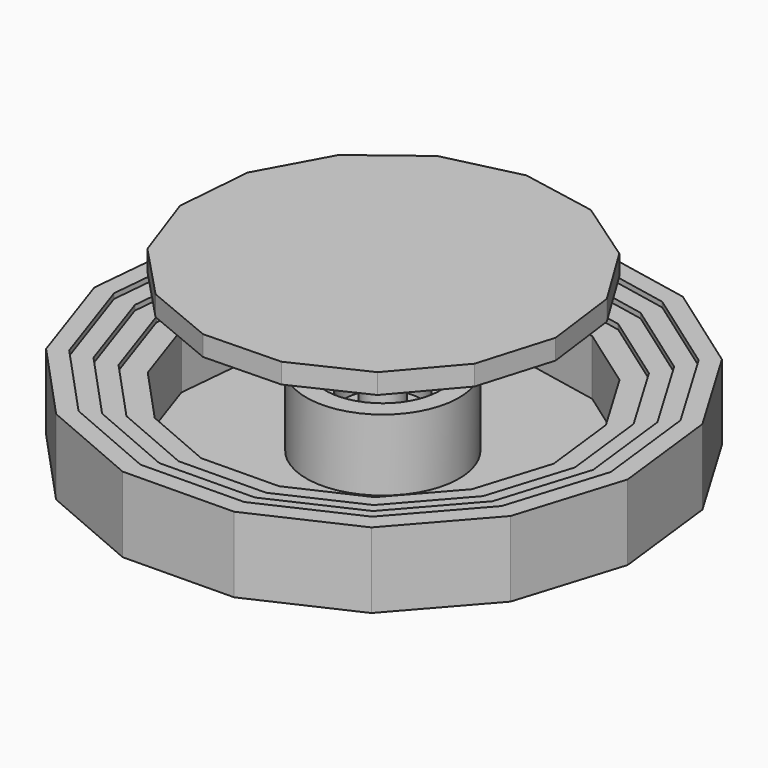
from build123d import *

# Parameters (mm, degrees)
F1_DEPTH  = 3.175
F2_DEPTH  = 3.175
F3_DEPTH  = 38.1
F4_DEPTH  = 41.275
F5_DEPTH  = 44.45
F6_DEPTH  = 47.625
F9_DEPTH  = 82.85556
F11_DEPTH = 12.7


with BuildPart() as f1:
    # F0 (on Top) → F1 (new body)
    with BuildSketch(Plane.XY):
        Polygon((-9.4908702287, 8.3305319638), (-12.0586739925, 3.7500349386), (-12.5414234734, -1.4788771955), (-10.8556469005, -6.4520780274), (-7.292830358, -10.309655953), (-2.4690171933, -12.384600704), (2.7817114744, -12.3181354828), (7.5514569571, -10.1217527298), (11.0154869291, -6.1752269766), (12.5748391385, -1.160948379), (11.959887422, 4.0540687402), (9.2769625181, 8.5681005442), (4.9899665163, 11.6006299253), (-0.1598400287, 12.627305004), (-5.2820087806, 11.470604332), align=None)
        Polygon((-7.9058447581, -0.932252511), (-7.6015298244, 2.3639417108), (-5.9828413263, 5.251388935), (-3.3296652105, 7.230823305), (-0.1007597308, 7.9599826356), (3.1455680218, 7.3127886543), (5.8479984868, 5.4011470801), (7.539256886, 2.5555981079), (7.9269092777, -0.7318369941), (6.9439270415, -3.8927308313), (4.7602767363, -6.3805361434), (1.7535313376, -7.7650887909), (-1.5564155597, -7.8069870429), (-4.5972440672, -6.4989863109), (-6.8431673107, -4.0672518043), align=None, mode=Mode.SUBTRACT)
        Polygon((-5.9828413263, 5.251388935), (-7.6015298244, 2.3639417108), (-7.9058447581, -0.932252511), (-6.8431673107, -4.0672518043), (-4.5972440672, -6.4989863109), (-1.5564155597, -7.8069870429), (1.7535313376, -7.7650887909), (4.7602767363, -6.3805361434), (6.9439270415, -3.8927308313), (7.9269092777, -0.7318369941), (7.539256886, 2.5555981079), (5.8479984868, 5.4011470801), (3.1455680218, 7.3127886543), (-0.1007597308, 7.9599826356), (-3.3296652105, 7.230823305), align=None)
    extrude(amount=F1_DEPTH)

    # F0 (on Top) → F2 (join)
    with BuildSketch(Plane.XY):
        Polygon((-88.0027819183, 77.2437057934), (-111.8123872745, 34.7716804603), (-116.2886150873, -13.7126843152), (-100.6574849026, -59.8260013968), (-67.6217611337, -95.5948593347), (-22.8936205404, -114.8344976416), (25.7930350264, -114.2182080676), (70.0198405147, -93.8525526789), (102.1395794678, -57.2589383083), (116.5984572219, -10.7647333231), (110.8964024586, 37.5907918482), (86.0193522481, 79.4465276074), (46.2687745726, 107.5652369941), (-1.4820945652, 117.0849397051), (-48.9766960882, 106.3595926578), align=None)
        Polygon((-103.0836181459, -12.1555589311), (-99.1156823489, 30.8232291542), (-78.0097446361, 68.4724008984), (-43.4152133794, 94.2820724751), (-1.3137973145, 103.7895171951), (41.0147862414, 95.3508114939), (76.2515406486, 70.4250842505), (98.3037109542, 33.3222201484), (103.3582765746, -9.5423585403), (90.5412571948, -50.7569767477), (62.0688319045, -83.1952525628), (22.8641417003, -101.2483134047), (-20.2939663181, -101.7946210468), (-59.9430631952, -84.7397139348), (-89.2274598802, -53.0325404474), align=None, mode=Mode.SUBTRACT)
        Polygon((-78.0097446361, 68.4724008984), (-99.1156823489, 30.8232291542), (-103.0836181459, -12.1555589311), (-89.2274598802, -53.0325404474), (-59.9430631952, -84.7397139348), (-20.2939663181, -101.7946210468), (22.8641417003, -101.2483134047), (62.0688319045, -83.1952525628), (90.5412571948, -50.7569767477), (103.3582765746, -9.5423585403), (98.3037109542, 33.3222201484), (76.2515406486, 70.4250842505), (41.0147862414, 95.3508114939), (-1.3137973145, 103.7895171951), (-43.4152133794, 94.2820724751), align=None)
        Polygon((-90.785239195, -10.7053414011), (-87.2906975121, 27.1458674216), (-68.7028012182, 60.3033091545), (-38.2355664483, 83.0337608963), (-1.1570548803, 91.4069210411), (36.121521988, 83.9749941321), (67.1543595509, 62.0230278487), (86.5755982692, 29.3467165888), (91.0271295321, -8.4039085758), (79.7392431435, -44.7014216006), (54.663717207, -73.269652731), (20.1363379612, -89.1688952703), (-17.872797051, -89.6500257433), (-52.7915630838, -74.6298523205), (-78.5821882632, -46.7054994405), align=None, mode=Mode.SUBTRACT)
        Polygon((-68.7028012182, 60.3033091545), (-87.2906975121, 27.1458674216), (-90.785239195, -10.7053414011), (-78.5821882632, -46.7054994405), (-52.7915630838, -74.6298523205), (-17.872797051, -89.6500257433), (20.1363379612, -89.1688952703), (54.663717207, -73.269652731), (79.7392431435, -44.7014216006), (91.0271295321, -8.4039085758), (86.5755982692, 29.3467165888), (67.1543595509, 62.0230278487), (36.121521988, 83.9749941321), (-1.1570548803, 91.4069210411), (-38.2355664483, 83.0337608963), align=None)
        Polygon((-80.9110588654, -9.5409839304), (-77.796598075, 24.1933699396), (-61.2303987176, 53.7444703571), (-34.0769071611, 74.0026635967), (-1.0312087776, 81.4651240074), (32.1927949719, 74.8415243897), (59.8503720083, 55.2771452912), (77.159276001, 26.1548455947), (81.126640203, -7.4898645144), (71.0664713016, -39.8395090057), (48.7182638935, -65.3005404593), (17.9462260667, -79.4705152307), (-15.9288772834, -79.8993159518), (-47.0497330419, -66.5127990823), (-70.035262524, -41.6256150016), align=None, mode=Mode.SUBTRACT)
        Polygon((-61.2303987176, 53.7444703571), (-77.796598075, 24.1933699396), (-80.9110588654, -9.5409839304), (-70.035262524, -41.6256150016), (-47.0497330419, -66.5127990823), (-15.9288772834, -79.8993159518), (17.9462260667, -79.4705152307), (48.7182638935, -65.3005404593), (71.0664713016, -39.8395090057), (81.126640203, -7.4898645144), (77.159276001, 26.1548455947), (59.8503720083, 55.2771452912), (32.1927949719, 74.8415243897), (-1.0312087776, 81.4651240074), (-34.0769071611, 74.0026635967), align=None)
        Polygon((-68.2382049407, -8.0466085342), (-65.6115527046, 20.4040357313), (-51.6400669437, 45.3266368539), (-28.7395444728, 62.411850685), (-0.8696936721, 68.7054885388), (27.1505350654, 63.1193232544), (50.4761896353, 46.6192535583), (65.0740524554, 22.0582913994), (68.4200204268, -6.3167497358), (59.9355452901, -33.5995674558), (41.0876698753, -55.0727147202), (15.1353630693, -67.0232892896), (-13.4339855118, -67.3849282533), (-39.680475954, -56.0951009492), (-59.0658516179, -35.1059210829), align=None, mode=Mode.SUBTRACT)
        Polygon((-51.6400669437, 45.3266368539), (-65.6115527046, 20.4040357313), (-68.2382049407, -8.0466085342), (-59.0658516179, -35.1059210829), (-39.680475954, -56.0951009492), (-13.4339855118, -67.3849282533), (15.1353630693, -67.0232892896), (41.0876698753, -55.0727147202), (59.9355452901, -33.5995674558), (68.4200204268, -6.3167497358), (65.0740524554, 22.0582913994), (50.4761896353, 46.6192535583), (27.1505350654, 63.1193232544), (-0.8696936721, 68.7054885388), (-28.7395444728, 62.411850685), align=None)
        Polygon((-55.7821490736, -6.577797836), (-53.6349603144, 16.6795267234), (-42.2137996585, 37.0528095836), (-23.4934895413, 51.0193250525), (-0.7109416508, 56.1641357239), (22.1945345099, 51.5976570934), (41.2623740227, 38.1094748015), (53.1955742102, 18.0318181027), (55.9307763501, -5.1637037599), (48.9950391439, -27.4663743318), (33.5876145637, -45.0198592574), (12.3725862916, -54.7890015249), (-10.9817745517, -55.0846276863), (-32.4372868088, -45.8556212926), (-48.2840974931, -28.6977613921), align=None, mode=Mode.SUBTRACT)
        Polygon((-42.2137996585, 37.0528095836), (-53.6349603144, 16.6795267234), (-55.7821490736, -6.577797836), (-48.2840974931, -28.6977613921), (-32.4372868088, -45.8556212926), (-10.9817745517, -55.0846276863), (12.3725862916, -54.7890015249), (33.5876145637, -45.0198592574), (48.9950391439, -27.4663743318), (55.9307763501, -5.1637037599), (53.1955742102, 18.0318181027), (41.2623740227, 38.1094748015), (22.1945345099, 51.5976570934), (-0.7109416508, 56.1641357239), (-23.4934895413, 51.0193250525), align=None)
        Polygon((-45.533494201, -5.36928255), (-43.780800758, 13.6150568945), (-34.4580091279, 30.245229313), (-19.1771146784, 41.645726814), (-0.5803228823, 45.8452998093), (18.1168120121, 42.1178039761), (33.6813855236, 31.1077572072), (43.4221414923, 14.7188966121), (45.6548147192, -4.2149949243), (39.9933557201, -22.4200755462), (27.4166821889, -36.7485214261), (10.0994152344, -44.7228141017), (-8.9641323644, -44.9641259251), (-26.4777000408, -37.4307318897), (-39.4130328378, -23.4252242631), align=None, mode=Mode.SUBTRACT)
        Polygon((-34.4580091279, 30.245229313), (-43.780800758, 13.6150568945), (-45.533494201, -5.36928255), (-39.4130328378, -23.4252242631), (-26.4777000408, -37.4307318897), (-8.9641323644, -44.9641259251), (10.0994152344, -44.7228141017), (27.4166821889, -36.7485214261), (39.9933557201, -22.4200755462), (45.6548147192, -4.2149949243), (43.4221414923, 14.7188966121), (33.6813855236, 31.1077572072), (18.1168120121, 42.1178039761), (-0.5803228823, 45.8452998093), (-19.1771146784, 41.645726814), align=None)
        Polygon((-35.1271666334, -4.1421745935), (-33.775037707, 10.5034410525), (-26.5828979245, 23.3329163199), (-14.7943335928, 32.1279183826), (-0.4476945806, 35.367711484), (13.9763548918, 32.4921059643), (25.9837656322, 23.9983201418), (33.4983472396, 11.3550067489), (35.2207602864, -3.2516904679), (30.8531839092, -17.2961408621), (21.1508117416, -28.3499313707), (7.7912720749, -34.5017611943), (-6.9154493151, -34.6879230688), (-20.4264266937, -28.8762279147), (-30.4054893286, -18.0715706219), align=None, mode=Mode.SUBTRACT)
        Polygon((-26.5828979245, 23.3329163199), (-33.775037707, 10.5034410525), (-35.1271666334, -4.1421745935), (-30.4054893286, -18.0715706219), (-20.4264266937, -28.8762279147), (-6.9154493151, -34.6879230688), (7.7912720749, -34.5017611943), (21.1508117416, -28.3499313707), (30.8531839092, -17.2961408621), (35.2207602864, -3.2516904679), (33.4983472396, 11.3550067489), (25.9837656322, 23.9983201418), (13.9763548918, 32.4921059643), (-0.4476945806, 35.367711484), (-14.7943335928, 32.1279183826), align=None)
        Polygon((-26.1789871349, -3.08701059), (-25.1712951073, 7.8278288442), (-19.8112574816, 17.3891655576), (-11.0256734577, 23.9437575706), (-0.3336503279, 26.3582563773), (10.4160639748, 24.2151731992), (19.3647461892, 17.885066587), (24.9650878643, 8.4624694812), (26.248739047, -2.423365477), (22.9937447862, -12.8901785287), (15.7629231602, -21.1281626092), (5.8065489181, -25.7128954312), (-5.1538303827, -25.8516350388), (-15.2230655893, -21.5203920935), (-22.6600944583, -13.4680778486), align=None, mode=Mode.SUBTRACT)
        Polygon((-19.8112574816, 17.3891655576), (-25.1712951073, 7.8278288442), (-26.1789871349, -3.08701059), (-22.6600944583, -13.4680778486), (-15.2230655893, -21.5203920935), (-5.1538303827, -25.8516350388), (5.8065489181, -25.7128954312), (15.7629231602, -21.1281626092), (22.9937447862, -12.8901785287), (26.248739047, -2.423365477), (24.9650878643, 8.4624694812), (19.3647461892, 17.885066587), (10.4160639748, 24.2151731992), (-0.3336503279, 26.3582563773), (-11.0256734577, 23.9437575706), align=None)
        Polygon((-18.4948609234, -2.1809029982), (-17.7829493507, 5.5301836186), (-13.9962042822, 12.2850512476), (-7.7893883418, 16.9157219097), (-0.2357163927, 18.6215105791), (7.3587130621, 17.1074708982), (13.6807541767, 12.6353940826), (17.6372686083, 5.9785428411), (18.544139068, -1.7120527709), (16.2445594147, -9.1066189054), (11.1361478613, -14.9265679001), (4.102195174, -18.1655777012), (-3.6410643261, -18.2635940887), (-10.7547507263, -15.2036691388), (-16.008843022, -9.5148916737), align=None, mode=Mode.SUBTRACT)
        Polygon((-13.9962042822, 12.2850512476), (-17.7829493507, 5.5301836186), (-18.4948609234, -2.1809029982), (-16.008843022, -9.5148916737), (-10.7547507263, -15.2036691388), (-3.6410643261, -18.2635940887), (4.102195174, -18.1655777012), (11.1361478613, -14.9265679001), (16.2445594147, -9.1066189054), (18.544139068, -1.7120527709), (17.6372686083, 5.9785428411), (13.6807541767, 12.6353940826), (7.3587130621, 17.1074708982), (-0.2357163927, 18.6215105791), (-7.7893883418, 16.9157219097), align=None)
        Polygon((-12.5414234734, -1.4788771955), (-12.0586739925, 3.7500349386), (-9.4908702287, 8.3305319638), (-5.2820087806, 11.470604332), (-0.1598400287, 12.627305004), (4.9899665163, 11.6006299253), (9.2769625181, 8.5681005442), (11.959887422, 4.0540687402), (12.5748391385, -1.160948379), (11.0154869291, -6.1752269766), (7.5514569571, -10.1217527298), (2.7817114744, -12.3181354828), (-2.4690171933, -12.384600704), (-7.292830358, -10.309655953), (-10.8556469005, -6.4520780274), align=None, mode=Mode.SUBTRACT)
    extrude(amount=F2_DEPTH)

    # F0 (on Top) → F3 (join)
    with BuildSketch(Plane.XY):
        Polygon((-98.9354621212, 86.8397744031), (-125.7029603468, 39.0914037043), (-130.7352747528, -15.4162258292), (-113.1622724614, -67.2582498648), (-76.0224852145, -107.4707114768), (-25.7377196313, -129.1005107337), (28.9973314959, -128.4076588434), (78.718480575, -105.5119561921), (114.8284892277, -64.3722777692), (131.0836089089, -12.1020477162), (124.6731817526, 42.2607363306), (96.7056288509, 89.3162551391), (52.0167941778, 120.9281820213), (-1.6662167663, 131.630527634), (-55.0611236945, 119.572759193), align=None)
        Polygon((-116.2886150873, -13.7126843152), (-111.8123872745, 34.7716804603), (-88.0027819183, 77.2437057934), (-48.9766960882, 106.3595926578), (-1.4820945652, 117.0849397051), (46.2687745726, 107.5652369941), (86.0193522481, 79.4465276074), (110.8964024586, 37.5907918482), (116.5984572219, -10.7647333231), (102.1395794678, -57.2589383083), (70.0198405147, -93.8525526789), (25.7930350264, -114.2182080676), (-22.8936205404, -114.8344976416), (-67.6217611337, -95.5948593347), (-100.6574849026, -59.8260013968), align=None, mode=Mode.SUBTRACT)
    extrude(amount=F3_DEPTH)

    # F0 (on Top) → F4 (join)
    with BuildSketch(Plane.XY):
        Polygon((-108.3169891109, 95.0743312533), (-137.6227077244, 42.7982349158), (-143.1322099093, -16.8780650484), (-123.8928526856, -73.6359942333), (-83.2312957013, -117.6615910533), (-28.1782915577, -141.3424298581), (31.746995188, -140.5838784848), (86.1829380533, -115.5170973571), (125.7170679818, -70.4763606564), (143.5135747525, -13.2496209406), (136.4952806686, 46.2680986048), (105.8757125364, 97.785643569), (56.949271856, 132.3951624055), (-1.8242152961, 144.1123548897), (-60.2822790511, 130.9112119939), align=None)
        Polygon((-130.7352747528, -15.4162258292), (-125.7029603468, 39.0914037043), (-98.9354621212, 86.8397744031), (-55.0611236945, 119.572759193), (-1.6662167663, 131.630527634), (52.0167941778, 120.9281820213), (96.7056288509, 89.3162551391), (124.6731817526, 42.2607363306), (131.0836089089, -12.1020477162), (114.8284892277, -64.3722777692), (78.718480575, -105.5119561921), (28.9973314959, -128.4076588434), (-25.7377196313, -129.1005107337), (-76.0224852145, -107.4707114768), (-113.1622724614, -67.2582498648), align=None, mode=Mode.SUBTRACT)
    extrude(amount=F4_DEPTH)

    # F0 (on Top) → F5 (join)
    with BuildSketch(Plane.XY):
        Polygon((-117.4151234418, 103.0601425675), (-149.1823891016, 46.3930919515), (-155.1546644063, -18.295745731), (-134.2992886993, -79.8210827649), (-90.2223459054, -127.544629437), (-30.5451398602, -153.2145509729), (34.4135983607, -152.392284735), (93.4219127874, -125.2200080261), (136.2767297816, -76.3960543413), (155.5680621614, -14.3625288246), (147.960263302, 50.1544084054), (114.7687907409, 105.9991927835), (61.732751619, 143.515753757), (-1.9774410823, 156.2171371062), (-65.345716256, 141.9071582616), align=None)
        Polygon((-143.1322099093, -16.8780650484), (-137.6227077244, 42.7982349158), (-108.3169891109, 95.0743312533), (-60.2822790511, 130.9112119939), (-1.8242152961, 144.1123548897), (56.949271856, 132.3951624055), (105.8757125364, 97.785643569), (136.4952806686, 46.2680986048), (143.5135747525, -13.2496209406), (125.7170679818, -70.4763606564), (86.1829380533, -115.5170973571), (31.746995188, -140.5838784848), (-28.1782915577, -141.3424298581), (-83.2312957013, -117.6615910533), (-123.8928526856, -73.6359942333), align=None, mode=Mode.SUBTRACT)
    extrude(amount=F5_DEPTH)

    # F0 (on Top) → F6 (join)
    with BuildSketch(Plane.XY):
        Polygon((-126.0658165977, 110.6532161326), (-160.1735717922, 49.811155922), (-166.5858612926, -19.6437056678), (-144.1939419904, -85.7019920901), (-96.8695801573, -136.9416255019), (-32.7955878825, -164.5028077888), (36.9490594758, -163.6199601479), (100.304878779, -134.4457349568), (146.3170733002, -82.0246207905), (167.0297165988, -15.4207045192), (158.8614044802, 53.8495916561), (123.2245123164, 113.8088042259), (66.2809825135, 154.0894406245), (-2.1231313097, 167.7266128806), (-70.1601364415, 152.3623300211), align=None)
        Polygon((-155.1546644063, -18.295745731), (-149.1823891016, 46.3930919515), (-117.4151234418, 103.0601425675), (-65.345716256, 141.9071582616), (-1.9774410823, 156.2171371062), (61.732751619, 143.515753757), (114.7687907409, 105.9991927835), (147.960263302, 50.1544084054), (155.5680621614, -14.3625288246), (136.2767297816, -76.3960543413), (93.4219127874, -125.2200080261), (34.4135983607, -152.392284735), (-30.5451398602, -153.2145509729), (-90.2223459054, -127.544629437), (-134.2992886993, -79.8210827649), align=None, mode=Mode.SUBTRACT)
    extrude(amount=F6_DEPTH)



with BuildPart() as f8:
    # F7 (on Right) → F8 (revolve)
    with BuildSketch(Plane.YZ):
        Polygon((0, 12.0537020266), (0, 0), (48.2148081064, 0), (48.2148081064, 48.2148081064), (36.1611060798, 48.2148081064), (36.1611060798, 36.1611060798), (24.1074040532, 36.1611060798), (24.1074040532, 24.1074040532), (12.0537020266, 24.1074040532), (12.0537020266, 12.0537020266), align=None)
    revolve(axis=Axis((0, 0, 31.1782751232), (0, 0, 1)))


with BuildPart() as f1_1:
    add(f1.part)
    # F9 (add): a face of the model
    f9_faces = [f8.part.faces().sort_by_distance(p)[0] for p in [
        (0, 0, 12.0537020266),
    ]]

    add(f8.part)  # F9 merges F8
    extrude(f9_faces, amount=F9_DEPTH)


with BuildPart() as f11:
    # F10 (on Top) → F11 (new body)
    with BuildSketch(Plane.XY):
        Polygon((-88.8984080627, 76.1989739624), (-112.2056517527, 33.4529864701), (-116.1115188982, -15.0773262936), (-99.9406495862, -61.000632368), (-66.4891340285, -96.3763749326), (-21.5410431624, -115.0877667195), (27.1316897607, -113.8994381011), (71.1131070405, -93.016861891), (102.7984220707, -56.0508252284), (116.7089560305, -9.3930916779), (110.4394512251, 38.8887927571), (85.0739619919, 80.4464516309), (44.9984118577, 108.0941881847), (-2.8577724845, 117.0514575964), (-50.2198220021, 105.7694666106), align=None)
    extrude(amount=F11_DEPTH)


with BuildPart() as f11_1:
    # F12: moved
    add(f11.part.moved(Location((0, 0, 94.94418))))


solid = Compound([f1_1.part, f11_1.part])
